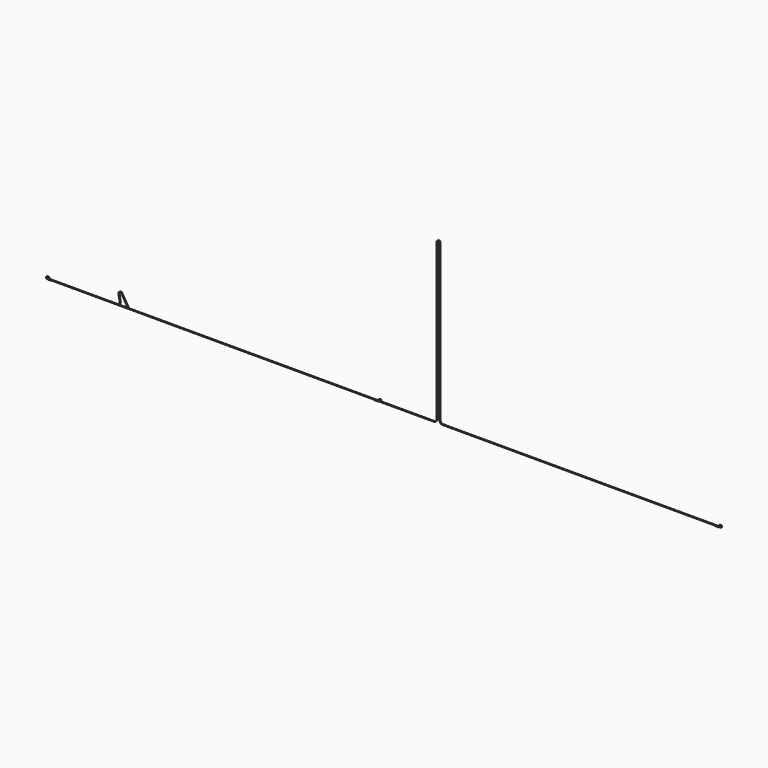
from build123d import *

# Parameters (mm, degrees)
F2_W = 5
F2_H = 1


with BuildPart() as f3:
    # F3: sweep along a path in F0
    with BuildLine(Plane.XZ) as f3_path:
        Line((37.4110606218, -1.5), (23, -1.5))
        ThreePointArc((23, -1.5), (22.2928932188, -1.2071067812), (22, -0.5))
        Line((22, -0.5), (22, 5))
        ThreePointArc((22, 5), (21.7071067812, 5.7071067812), (21, 6))
        Line((21, 6), (19.5, 6))
        ThreePointArc((19.5, 6), (18.7928932188, 5.7071067812), (18.5, 5))
        Line((18.5, 5), (18.5, 0.75))
        ThreePointArc((18.5, 0.75), (18.2071067812, 0.0428932188), (17.5, -0.25))
        Line((17.5, -0.25), (15.5, -0.25))
        ThreePointArc((15.5, -0.25), (14.7928932188, 0.0428932188), (14.5, 0.75))
        Line((14.5, 0.75), (14.5, 6.25))
        ThreePointArc((14.5, 6.25), (14.7928932188, 6.9571067812), (15.5, 7.25))
        Line((15.5, 7.25), (22.5, 7.25))
        ThreePointArc((22.5, 7.25), (23.2071067812, 6.9571067812), (23.5, 6.25))
        Line((23.5, 6.25), (23.5, 1))
        ThreePointArc((23.5, 1), (23.7928932188, 0.2928932188), (24.5, 0))
        Line((24.5, 0), (1721, 0))
        ThreePointArc((1721, 0), (1729.4852813742, 3.5147186258), (1733, 12))
        Line((1733, 12), (1733, 700))
        ThreePointArc((1733, 700), (1740, 707), (1747, 700))
        Line((1747, 700), (1747, 12))
        ThreePointArc((1747, 12), (1750.5147186258, 3.5147186258), (1759, 0))
        Line((1759, 0), (2975.5, 0))
        ThreePointArc((2975.5, 0), (2976.2071067812, 0.2928932188), (2976.5, 1))
        Line((2976.5, 1), (2976.5, 6.25))
        ThreePointArc((2976.5, 6.25), (2976.7928932188, 6.9571067812), (2977.5, 7.25))
        Line((2977.5, 7.25), (2984.5, 7.25))
        ThreePointArc((2984.5, 7.25), (2985.2071067812, 6.9571067812), (2985.5, 6.25))
        Line((2985.5, 6.25), (2985.5, 0.75))
        ThreePointArc((2985.5, 0.75), (2985.2071067812, 0.0428932188), (2984.5, -0.25))
        Line((2984.5, -0.25), (2982.5, -0.25))
        ThreePointArc((2982.5, -0.25), (2981.7928932188, 0.0428932188), (2981.5, 0.75))
        Line((2981.5, 0.75), (2981.5, 5))
        ThreePointArc((2981.5, 5), (2981.2071067812, 5.7071067812), (2980.5, 6))
        Line((2980.5, 6), (2979, 6))
        ThreePointArc((2979, 6), (2978.2928932188, 5.7071067812), (2978, 5))
        Line((2978, 5), (2978, -0.5))
        ThreePointArc((2978, -0.5), (2977.7071067812, -1.2071067812), (2977, -1.5))
        Line((2977, -1.5), (2957, -1.5))
    # F2 (on plane+point) → F3 (sweep)
    with BuildSketch(Plane.YZ.offset(37.4110606218)):
        with Locations((0, -1.5)):
            Rectangle(F2_W, F2_H)
    sweep(path=f3_path.line)


with BuildPart() as f5:
    # F5: sweep along a path in F4
    with BuildLine(Plane.XZ) as f5_path:
        Line((37.4110606218, -1.5), (23, -1.5))
        ThreePointArc((23, -1.5), (22.2928932188, -1.2071067812), (22, -0.5))
        Line((22, -0.5), (22, 5))
        ThreePointArc((22, 5), (21.7071067812, 5.7071067812), (21, 6))
        Line((21, 6), (19.5, 6))
        ThreePointArc((19.5, 6), (18.7928932188, 5.7071067812), (18.5, 5))
        Line((18.5, 5), (18.5, 0.75))
        ThreePointArc((18.5, 0.75), (18.2071067812, 0.0428932188), (17.5, -0.25))
        Line((17.5, -0.25), (15.5, -0.25))
        ThreePointArc((15.5, -0.25), (14.7928932188, 0.0428932188), (14.5, 0.75))
        Line((14.5, 0.75), (14.5, 6.25))
        ThreePointArc((14.5, 6.25), (14.7928932188, 6.9571067812), (15.5, 7.25))
        Line((15.5, 7.25), (22.5, 7.25))
        ThreePointArc((22.5, 7.25), (23.2071067812, 6.9571067812), (23.5, 6.25))
        Line((23.5, 6.25), (23.5, 1))
        ThreePointArc((23.5, 1), (23.7928932188, 0.2928932188), (24.5, 0))
        Line((24.5, 0), (326.5, 0))
        ThreePointArc((326.5, 0), (335.7287796355, 4.3299526443), (338.2975294733, 14.1950622602))
        Line((338.2975294733, 14.1950622602), (332.6181078072, 44.7195470149))
        ThreePointArc((332.6181078072, 44.7195470149), (337.0082961184, 52.5415144857), (345.4898077174, 49.6224582136))
        Line((345.4898077174, 49.6224582136), (371.998336251, 5.7900716339))
        ThreePointArc((371.998336251, 5.7900716339), (376.3724767803, 1.5472697252), (382.2665780522, 0))
        Line((382.2665780522, 0), (1476.2665780522, 0))
        ThreePointArc((1476.2665780522, 0), (1476.9736848334, 0.2928932188), (1477.2665780522, 1))
        Line((1477.2665780522, 1), (1477.2665780522, 6.25))
        ThreePointArc((1477.2665780522, 6.25), (1477.559471271, 6.9571067812), (1478.2665780522, 7.25))
        Line((1478.2665780522, 7.25), (1485.2665780522, 7.25))
        ThreePointArc((1485.2665780522, 7.25), (1485.9736848334, 6.9571067812), (1486.2665780522, 6.25))
        Line((1486.2665780522, 6.25), (1486.2665780522, 0.75))
        ThreePointArc((1486.2665780522, 0.75), (1485.9736848334, 0.0428932188), (1485.2665780522, -0.25))
        Line((1485.2665780522, -0.25), (1483.2665780522, -0.25))
        ThreePointArc((1483.2665780522, -0.25), (1482.559471271, 0.0428932188), (1482.2665780522, 0.75))
        Line((1482.2665780522, 0.75), (1482.2665780522, 5))
        ThreePointArc((1482.2665780522, 5), (1481.9736848334, 5.7071067812), (1481.2665780522, 6))
        Line((1481.2665780522, 6), (1479.7665780522, 6))
        ThreePointArc((1479.7665780522, 6), (1479.059471271, 5.7071067812), (1478.7665780522, 5))
        Line((1478.7665780522, 5), (1478.7665780522, -0.5))
        ThreePointArc((1478.7665780522, -0.5), (1478.4736848334, -1.2071067812), (1477.7665780522, -1.5))
        Line((1477.7665780522, -1.5), (1457.7665780522, -1.5))
    # F2 (on plane+point) → F5 (sweep)
    with BuildSketch(Plane.YZ.offset(37.4110606218)):
        with Locations((0, -1.5)):
            Rectangle(F2_W, F2_H)
    sweep(path=f5_path.line)


solid = Compound([f3.part, f5.part])
